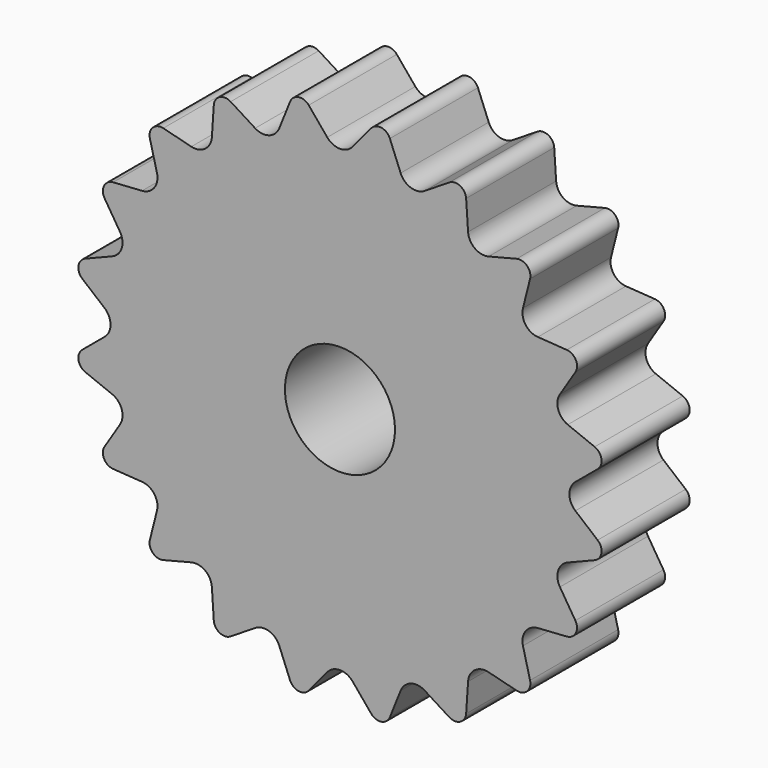
from build123d import *

# Parameters (mm, degrees)
F0_R     = 6.35
F1_DEPTH = 12.7
F2_R     = 1.905
F3_R     = 1.27


with BuildPart() as f1:
    # F0 (on Front) → F1 (new body)
    with BuildSketch(Plane.XZ):
        Polygon((22.45064, 22.45064), (14.929745, 20.549032), (14.414198, 28.289457), (7.849032, 24.156836), (4.966794, 31.359105), (0, 25.4), (-4.966794, 31.359105), (-7.849032, 24.156836), (-14.414198, 28.289457), (-14.929745, 20.549032), (-22.45064, 22.45064), (-20.549032, 14.929745), (-28.289457, 14.414198), (-24.156836, 7.849032), (-31.359105, 4.966794), (-25.4, 0), (-31.359105, -4.966794), (-24.156836, -7.849032), (-28.289457, -14.414198), (-20.549032, -14.929745), (-22.45064, -22.45064), (-14.929745, -20.549032), (-14.414198, -28.289457), (-7.849032, -24.156836), (-4.966794, -31.359105), (0, -25.4), (4.966794, -31.359105), (7.849032, -24.156836), (14.414198, -28.289457), (14.929745, -20.549032), (22.45064, -22.45064), (20.549032, -14.929745), (28.289457, -14.414198), (24.156836, -7.849032), (31.359105, -4.966794), (25.4, 0), (31.359105, 4.966794), (24.156836, 7.849032), (28.289457, 14.414198), (20.549032, 14.929745), align=None)
        Circle(F0_R, mode=Mode.SUBTRACT)
    extrude(amount=F1_DEPTH)

    # F2
    f2_edges = [f1.edges().sort_by_distance(p)[0] for p in [
        (-20.549032, -6.35, 14.929745),
        (-14.929745, -6.35, 20.549032),
        (-24.156836, -6.35, 7.849032),
        (-25.4, -6.35, 0),
        (-24.156836, -6.35, -7.849032),
        (-20.549032, -6.35, -14.929745),
        (-14.929745, -6.35, -20.549032),
        (-7.849032, -6.35, -24.156836),
        (0, -6.35, -25.4),
        (7.849032, -6.35, -24.156836),
        (14.929745, -6.35, -20.549032),
        (20.549032, -6.35, -14.929745),
        (24.156836, -6.35, -7.849032),
        (25.4, -6.35, 0),
        (24.156836, -6.35, 7.849032),
        (20.549032, -6.35, 14.929745),
        (14.929745, -6.35, 20.549032),
        (7.849032, -6.35, 24.156836),
        (0, -6.35, 25.4),
        (-7.849032, -6.35, 24.156836),
    ]]
    fillet(f2_edges, radius=F2_R)

    # F3
    f3_edges = [f1.edges().sort_by_distance(p)[0] for p in [
        (28.289457, -6.35, -14.414198),
        (22.45064, -6.35, -22.45064),
        (14.414198, -6.35, -28.289457),
        (4.966794, -6.35, -31.359105),
        (-14.414198, -6.35, -28.289457),
        (-4.966794, -6.35, -31.359105),
        (-22.45064, -6.35, -22.45064),
        (-28.289457, -6.35, -14.414198),
        (-31.359105, -6.35, -4.966794),
        (-31.359105, -6.35, 4.966794),
        (-14.414198, -6.35, 28.289457),
        (-4.966794, -6.35, 31.359105),
        (-28.289457, -6.35, 14.414198),
        (-22.45064, -6.35, 22.45064),
        (4.966794, -6.35, 31.359105),
        (14.414198, -6.35, 28.289457),
        (22.45064, -6.35, 22.45064),
        (28.289457, -6.35, 14.414198),
        (31.359105, -6.35, 4.966794),
        (31.359105, -6.35, -4.966794),
    ]]
    fillet(f3_edges, radius=F3_R)


solid = f1.part
